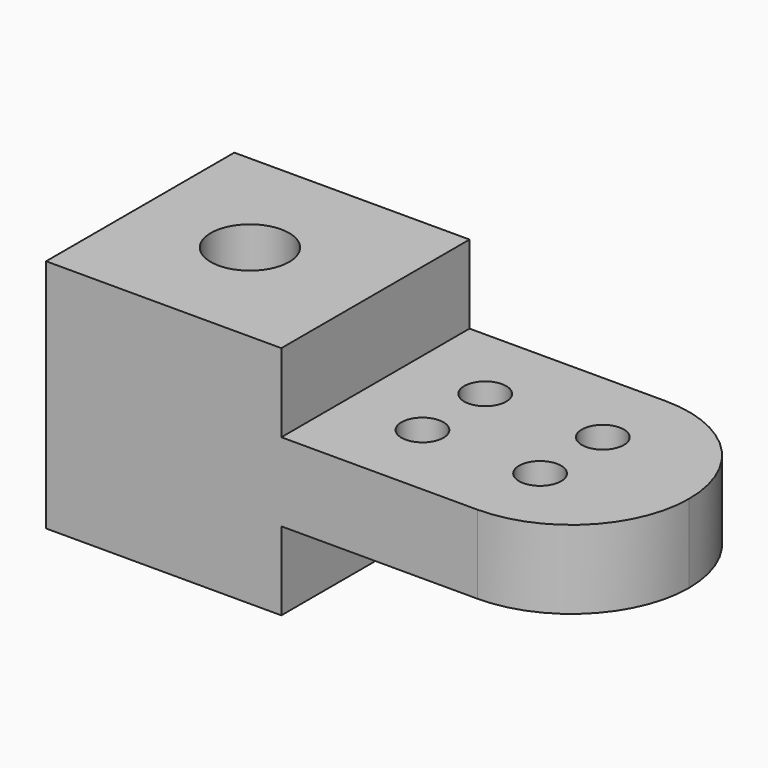
from build123d import *

# Parameters (mm, degrees)
F1_DEPTH = 19.05
F3_DEPTH = 25.401
F4_R     = 6.35
F5_DEPTH = 38.101
F6_R     = 3.40451567
F7_DEPTH = 25.401


with BuildPart() as f1:
    # F0 (on Front) → F1 (new body, symmetric)
    with BuildSketch(Plane.XZ):
        Polygon((0, 38.1), (0, 0), (38.1, 0), (38.1, 12.7), (88.9, 12.7), (88.9, 25.4), (38.1, 25.4), (38.1, 38.1), align=None)
    extrude(amount=F1_DEPTH, both=True)

    # F2 (on face) → F3 (cut, through all)
    with BuildSketch(Plane.XY.offset(25.4)):
        with BuildLine():
            Line((88.9, 19.05), (69.85, 19.05))
            ThreePointArc((69.85, 19.05), (83.3203841816, 13.4703841816), (88.9, 0))
            Line((88.9, 0), (88.9, 19.05))
        make_face()
        with BuildLine():
            ThreePointArc((88.9, 0), (83.3203841816, -13.4703841816), (69.85, -19.05))
            Line((69.85, -19.05), (88.9, -19.05))
            Line((88.9, -19.05), (88.9, 0))
        make_face()
    extrude(amount=-F3_DEPTH, mode=Mode.SUBTRACT)

    # F4 (on face) → F5 (cut, through all)
    with BuildSketch(Plane.XY.offset(38.1)):
        with Locations((17.78, 0)):
            Circle(F4_R)
    extrude(amount=-F5_DEPTH, mode=Mode.SUBTRACT)

    # F6 (on face) → F7 (cut, through all)
    with BuildSketch(Plane.XY.offset(25.4)):
        with Locations((50.8, 6.35)):
            Circle(F6_R)
        with Locations((69.85, 6.35)):
            Circle(F6_R)
        with Locations((69.85, -6.35)):
            Circle(F6_R)
        with Locations((50.8, -6.35)):
            Circle(F6_R)
    extrude(amount=-F7_DEPTH, mode=Mode.SUBTRACT)


solid = f1.part
